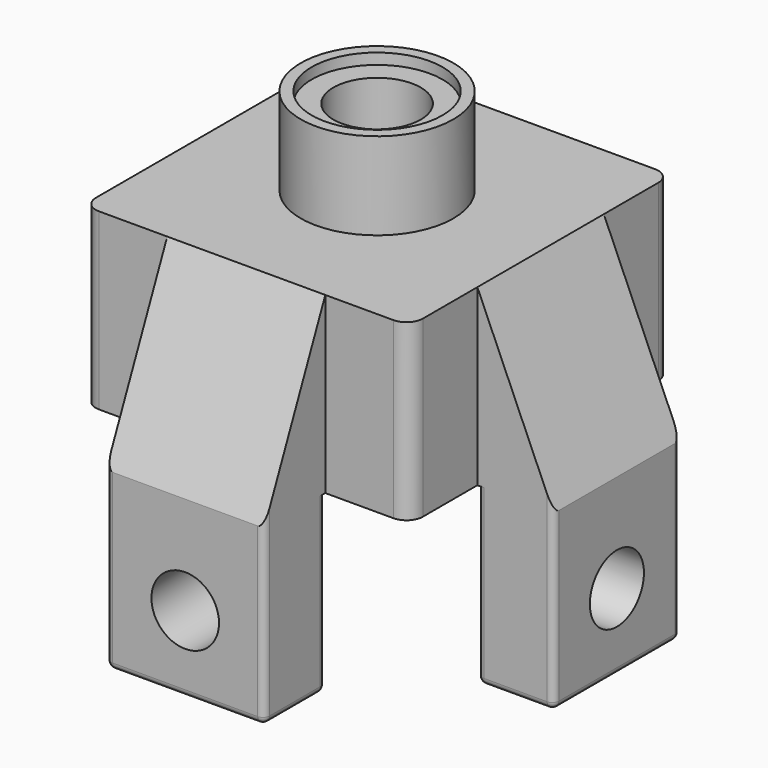
from build123d import *

# Parameters (mm, degrees)
SKETCH_W           = 30
SKETCH_H           = 30
PAD_DEPTH          = 16
SKETCH001_R        = 7
PAD001_DEPTH       = 8
SKETCH002_R        = 4
POCKET_DEPTH       = 24
CYLINDER_R         = 6
CYLINDER_DEPTH     = 1
PAD002_DEPTH       = 7.25
SKETCH004_R        = 3.1
POCKET001_DEPTH    = 7
PAD003_DEPTH       = 7.25
SKETCH006_R        = 3.1
POCKET002_DEPTH    = 7
POCKET003_DEPTH    = 8
POLARPATTERN_COUNT = 4
FILLET_R           = 1
FILLET001_R        = 1.5
FILLET002_R        = 0.6


with BuildPart() as part:
    # Sketch → Pad (new body)
    with BuildSketch(Plane.XY):
        Rectangle(SKETCH_W, SKETCH_H)
    extrude(amount=PAD_DEPTH)

    # Sketch001 (on Face6 of Pad) → Pad001 (join)
    with BuildSketch(Plane.XY.offset(16)):
        Circle(SKETCH001_R)
    extrude(amount=PAD001_DEPTH)

    # Sketch002 (on Face8 of Pad001) → Pocket (cut)
    with BuildSketch(Plane.XY.offset(24)):
        Circle(SKETCH002_R)
    extrude(amount=-POCKET_DEPTH, mode=Mode.SUBTRACT)

    # Cylinder → Cylinder (cut)
    with BuildSketch(Plane.XY.offset(23)):
        Circle(CYLINDER_R)
    extrude(amount=CYLINDER_DEPTH, mode=Mode.SUBTRACT)

    # Sketch003 → Pad002 (join, symmetric)
    with BuildSketch(Plane.XZ):
        Polygon((15, 16), (22, 0), (22, -16), (15, -16), align=None)
    extrude(amount=PAD002_DEPTH, both=True)

    # Sketch004 (on Face16 of Pad002) → Pocket001 (cut)
    with BuildSketch(Plane(origin=(22, 0, 23), x_dir=(0, 1, 0), z_dir=(1, 0, 0))):
        with Locations((0, -32)):
            Circle(SKETCH004_R)
    extrude(amount=-POCKET001_DEPTH, mode=Mode.SUBTRACT)

    # Sketch005 → Pad003 (join, symmetric)
    with BuildSketch(Plane.YZ):
        Polygon((-15, 16), (-22, 0), (-22, -16), (-15, -16), align=None)
    extrude(amount=PAD003_DEPTH, both=True)

    # Sketch006 (on Face17 of Pad003) → Pocket002 (cut)
    with BuildSketch(Plane(origin=(0, -22, 23), x_dir=(1, 0, 0), z_dir=(0, -1, 0))):
        with Locations((0, -32)):
            Circle(SKETCH006_R)
    extrude(amount=-POCKET002_DEPTH, mode=Mode.SUBTRACT)

    # Sketch007 (on Face4 of Pocket002) → Pocket003 (cut)
    with BuildSketch(Plane(origin=(0, 0, 0), x_dir=(1, 0, 0), z_dir=(0, 0, -1))):
        with BuildLine():
            ThreePointArc((5.656854, 2), (4.242641, 4.242641), (2, 5.656854))
            Line((2, 13), (2, 5.656854))
            Line((2, 13), (13, 13))
            Line((13, 13), (13, 2))
            Line((13, 2), (5.656854, 2))
        make_face()
    pocket003 = extrude(amount=-POCKET003_DEPTH, mode=Mode.SUBTRACT)

    # PolarPattern: Pocket003 ×4 about axis
    polarpattern_axis = Axis((0, 0, 0), (0, 0, -1))
    for i in range(1, POLARPATTERN_COUNT):
        add(pocket003.rotate(polarpattern_axis, i * 360 / POLARPATTERN_COUNT), mode=Mode.SUBTRACT)

    # Fillet
    fillet_edges = [part.edges().sort_by_distance(p)[0] for p in [
        (5.656854, -2, 4),
        (2, -5.656854, 4),
        (2, -13, 4),
        (13, -13, 4),
        (13, -2, 4),
        (5.656854, 2, 4),
        (13, 2, 4),
        (13, 13, 4),
        (2, 13, 4),
        (2, 5.656854, 4),
        (-2, 5.656854, 4),
        (-13, 2, 4),
        (-13, 13, 4),
        (-2, 13, 4),
        (-5.656854, 2, 4),
        (-5.656854, -2, 4),
        (-2, -5.656854, 4),
        (-2, -13, 4),
        (-13, -13, 4),
        (-13, -2, 4),
    ]]
    fillet(fillet_edges, radius=FILLET_R)

    # Fillet001
    fillet001_edges = [part.edges().sort_by_distance(p)[0] for p in [
        (15, 15, 8),
        (-15, 15, 8),
        (-15, -15, 8),
        (15, -15, 8),
    ]]
    fillet(fillet001_edges, radius=FILLET001_R)

    # Fillet002
    fillet002_edges = [part.edges().sort_by_distance(p)[0] for p in [
        (18.5, -7.25, -16),
        (18.5, 7.25, -16),
        (7.25, -18.5, -16),
        (-7.25, -18.5, -16),
        (0, -22, -16),
        (0, -15, -16),
        (22, 0, -16),
        (15, 0, -16),
        (22, -7.25, -8),
        (15, -7.25, -8),
        (22, 7.25, -8),
        (15, 7.25, -8),
        (7.25, -15, -8),
        (7.25, -22, -8),
        (-7.25, -15, -8),
        (-7.25, -22, -8),
    ]]
    fillet(fillet002_edges, radius=FILLET002_R)


solid = part.part
